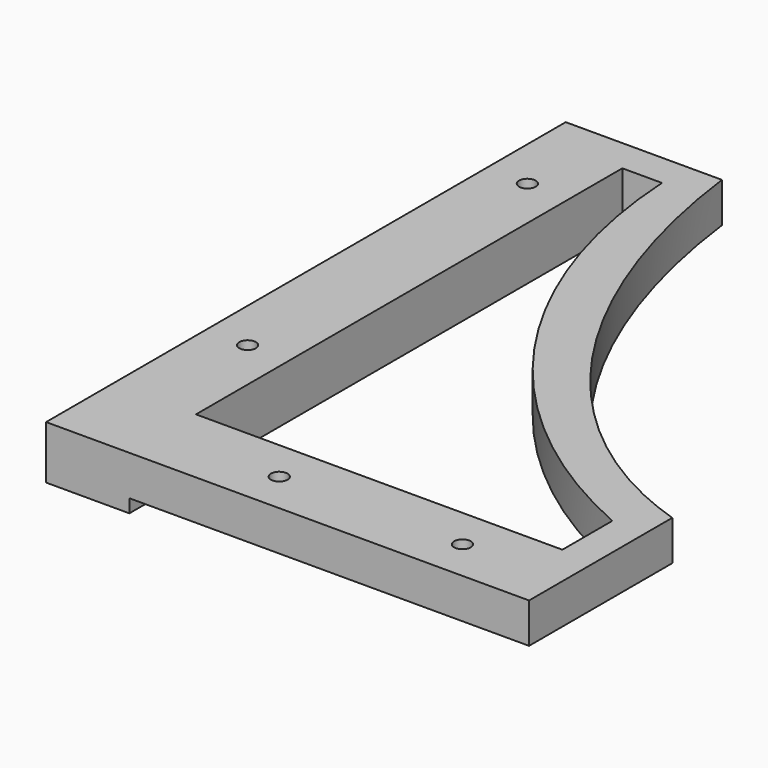
from build123d import *

# Parameters (mm, degrees)
F1_DEPTH  = 12
F2_W      = 150
F2_H      = 20
F3_DEPTH  = 5
F4_W      = 205
F4_H      = 20
F5_DEPTH  = 5
F6_R      = 2.5
F7_DEPTH  = 25
F9_DEPTH  = 5
F10_W     = 30
F10_H     = 30
F10_W_2   = 145
F10_H_2   = 195
F11_DEPTH = 25
F12_W     = 195
F12_H     = 9
F13_DEPTH = 145.0010001
F15_DEPTH = 25
F17_DEPTH = 25


with BuildPart() as f1:
    # F0 (on Top) → F1 (new body)
    with BuildSketch(Plane.XY):
        with BuildLine():
            add(Edge.make_bspline(
                [(-130, 0), (-130, -176), (0, -176)],
                knots=[1.5707963268, 1.5707963268, 1.5707963268, 3.1415926536, 3.1415926536, 3.1415926536], degree=2, weights=[1, 0.7071067812, 1]))
            Line((-130, 0), (-130, -176))
            Line((-130, -176), (0, -176))
        make_face()
        Polygon((-130, -176), (-130, 0), (-150, 0), (-150, -200), (0, -200), (0, -176), align=None)
    extrude(amount=F1_DEPTH)

    # F2 (on face) → F3 (join)
    with BuildSketch(Plane.XZ.offset(200)):
        with Locations((-75, 6)):
            Rectangle(F2_W, F2_H)
    extrude(amount=F3_DEPTH)

    # F4 (on face) → F5 (join)
    with BuildSketch(Plane(origin=(-150, 0, 0), x_dir=(0, -1, 0), z_dir=(-1, 0, 0))):
        with Locations((102.5, 6)):
            Rectangle(F4_W, F4_H)
    extrude(amount=F5_DEPTH)

    # F6 (on face) → F7 (join)
    with BuildSketch(Plane(origin=(0, 0, -4), x_dir=(1, 0, 0), z_dir=(0, 0, -1))):
        Polygon((0, 205), (0, 225), (-175, 225), (-175, 0), (-155, 0), (-155, 205), align=None)
        with Locations((-162.5, 60)):
            Circle(F6_R, mode=Mode.SUBTRACT)
        with Locations((-162.5, 165)):
            Circle(F6_R, mode=Mode.SUBTRACT)
        with Locations((-115, 212.5)):
            Circle(F6_R, mode=Mode.SUBTRACT)
        with Locations((-60, 212.5)):
            Circle(F6_R, mode=Mode.SUBTRACT)
    extrude(amount=-F7_DEPTH)

    # F8 (on face) → F9 (join)
    with BuildSketch(Plane.XY.offset(16)):
        Polygon((-140, 0), (-155, 0), (-155, -205), (0, -205), (0, -190), (-140, -190), align=None)
    extrude(amount=F9_DEPTH)

    # F10 (on Top) → F11 (cut, symmetric)
    with BuildSketch(Plane.XY):
        with Locations((-15, -15)):
            Rectangle(F10_W, F10_H)
        with Locations((-102.5, -15)):
            Rectangle(F10_W_2, F10_H)
        with Locations((-15, -127.5)):
            Rectangle(F10_W, F10_H_2)
    extrude(amount=F11_DEPTH, both=True, mode=Mode.SUBTRACT)

    # F12 (on face) → F13 (cut, through all)
    with BuildSketch(Plane.YZ.offset(-30)):
        with Locations((-127.5, 16.5)):
            Rectangle(F12_W, F12_H)
    extrude(amount=-F13_DEPTH, mode=Mode.SUBTRACT)

    # F14 (on face) → F15 (cut)
    with BuildSketch(Plane(origin=(0, 0, 0), x_dir=(1, 0, 0), z_dir=(0, 0, -1))):
        with BuildLine():
            ThreePointArc((-138.0975202339, 40), (-108.9058025162, 124.4154289012), (-40, 181.2494979045))
            Line((-40, 181.2494979045), (-40, 200))
            Line((-40, 200), (-150, 200))
            Line((-150, 200), (-150, 40))
            Line((-150, 40), (-138.0975202339, 40))
        make_face()
    extrude(amount=-F15_DEPTH, mode=Mode.SUBTRACT)

    # F16 (on face) → F17 (cut, through all)
    with BuildSketch(Plane(origin=(0, -200, 0), x_dir=(-1, 0, 0), z_dir=(0, 1, 0))):
        Polygon((30, 0), (30, -4), (150, -4), (150, 0), (40, 0), align=None)
    extrude(amount=-F17_DEPTH, mode=Mode.SUBTRACT)


solid = f1.part
